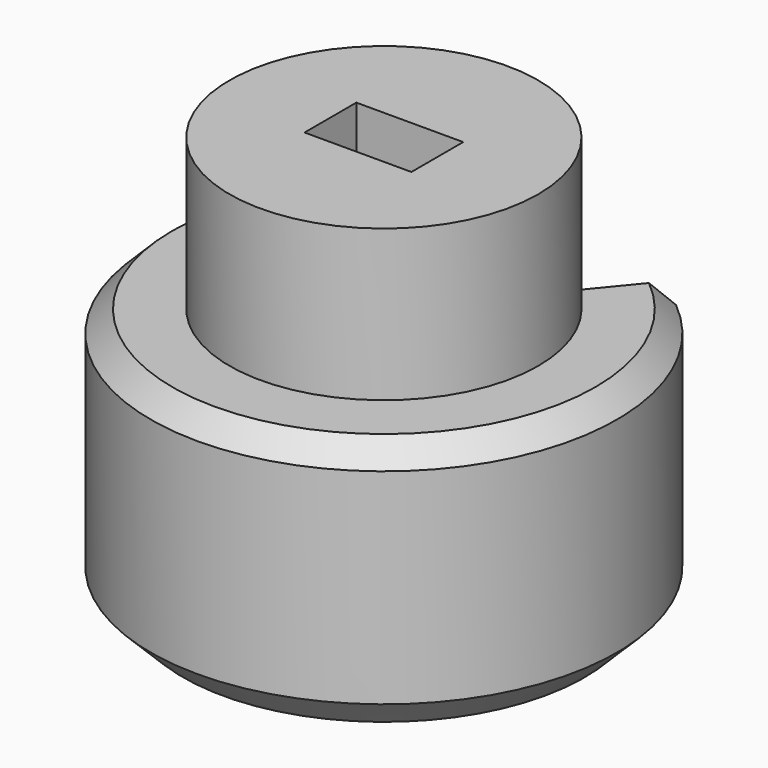
from build123d import *

# Parameters (mm, degrees)
SKETCH009_R     = 7.15
PAD009_DEPTH    = 7
PAD010_DEPTH    = 12
SKETCH011_W     = 4.95
SKETCH011_H     = 3
POCKET_DEPTH    = 19.001
CHAMFER_SIZE    = 1.5
CHAMFER001_SIZE = 1


with BuildPart() as part:
    # Sketch009 → Pad009 (new body)
    with BuildSketch(Plane.XY):
        with Locations((84.022852, 0)):
            Circle(SKETCH009_R)
    extrude(amount=PAD009_DEPTH)

    # Sketch010 (on Face2 of Pad009) → Pad010 (join)
    with BuildSketch(Plane(origin=(0, 0, 0), x_dir=(1, 0, 0), z_dir=(0, 0, -1))):
        with BuildLine():
            ThreePointArc((90.872852, -8.349701), (84.022852, 10.8), (77.172852, -8.349701))
            Line((79.487898, -5.527811), (77.172852, -8.349701))
            ThreePointArc((79.487898, -5.527811), (84.022852, -7.15), (88.557806, -5.527811))
            Line((88.557806, -5.527811), (90.872852, -8.349701))
        make_face()
    extrude(amount=PAD010_DEPTH)

    # Sketch011 (on Face8 of Pad010) → Pocket (cut, through all)
    with BuildSketch(Plane(origin=(0, 0, -12), x_dir=(1, 0, 0), z_dir=(0, 0, -1))):
        with Locations((84.022852, 0)):
            Rectangle(SKETCH011_W, SKETCH011_H)
    extrude(amount=-POCKET_DEPTH, mode=Mode.SUBTRACT)

    # Chamfer
    chamfer_edges = [part.edges().sort_by_distance(p)[0] for p in [
        (84.022852, -10.8, -12),
    ]]
    chamfer(chamfer_edges, length=CHAMFER_SIZE)

    # Chamfer001
    chamfer001_edges = [part.edges().sort_by_distance(p)[0] for p in [
        (84.022852, -10.8, 0),
    ]]
    chamfer(chamfer001_edges, length=CHAMFER001_SIZE)


solid = part.part
